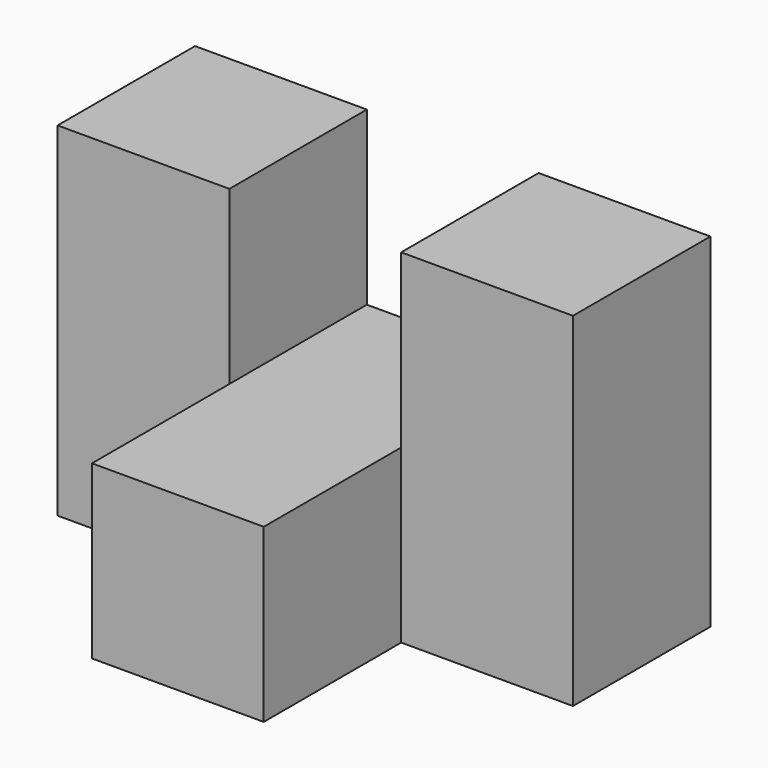
from build123d import *

# Parameters (mm, degrees)
F0_W     = 25.4
F0_H     = 25.4
F1_DEPTH = 50.8
F2_DEPTH = 25.4


with BuildPart() as f1:
    # F0 (on Front) → F1 (new body)
    with BuildSketch(Plane.XZ):
        with Locations((-21.454737, -9.414872)):
            Rectangle(F0_W, F0_H)
    extrude(amount=F1_DEPTH)

    # F0 (on Front) → F2 (join)
    with BuildSketch(Plane.XZ):
        with Locations((-46.854737, 15.985128)):
            Rectangle(F0_W, F0_H)
        with Locations((-46.854737, -9.414872)):
            Rectangle(F0_W, F0_H)
        with Locations((3.945263, 15.985128)):
            Rectangle(F0_W, F0_H)
        with Locations((3.945263, -9.414872)):
            Rectangle(F0_W, F0_H)
    extrude(amount=F2_DEPTH)


solid = f1.part
